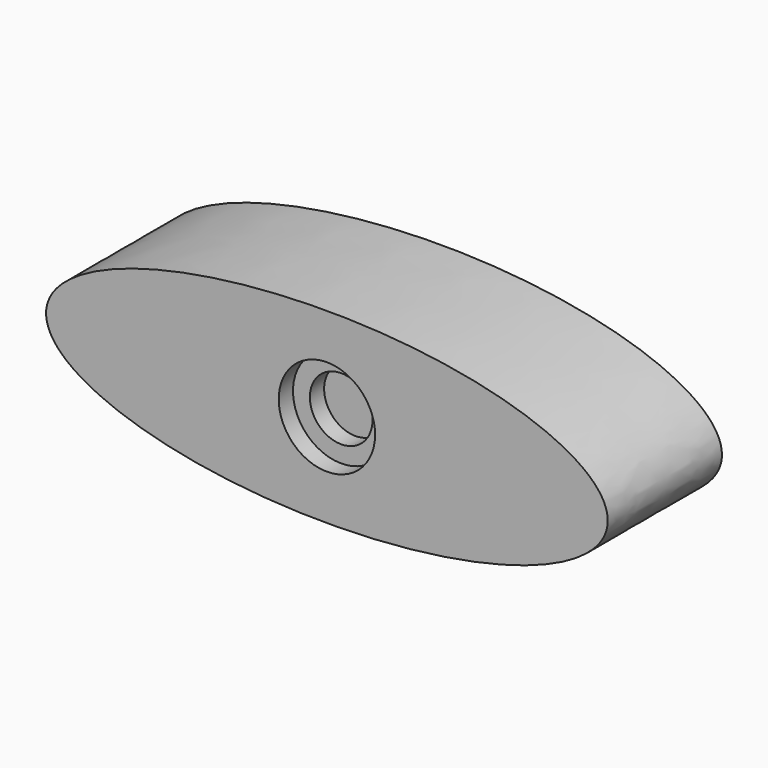
from build123d import *

# Parameters (mm, degrees)
F1_DEPTH = 20
F2_R     = 4.389142
F3_DEPTH = 5
F4_R     = 8.422918
F5_DEPTH = 2.5
F6_R     = 6.752039
F7_DEPTH = 2.5


with BuildPart() as f1:
    # F0 (on Front) → F1 (new body)
    with BuildSketch(Plane.XZ):
        with BuildLine():
            add(Edge.make_bspline(
                [(-39.346054, 0), (-39.346054, -22.684983), (19.673027, -11.342491), (78.692108, 0), (19.673027, 11.342491), (-39.346054, 22.684983), (-39.346054, 0)],
                knots=[0, 0, 0, 2.094395, 2.094395, 4.18879, 4.18879, 6.283185, 6.283185, 6.283185], degree=2, weights=[1, 0.5, 1, 0.5, 1, 0.5, 1]))
        make_face()
    extrude(amount=F1_DEPTH)

    # F2 (on face) → F3 (cut)
    with BuildSketch(Plane.XZ.offset(20)):
        Circle(F2_R)
    extrude(amount=-F3_DEPTH, mode=Mode.SUBTRACT)

    # F4 (on face) → F5 (cut)
    with BuildSketch(Plane.XZ.offset(15)):
        Circle(F4_R)
    extrude(amount=-F5_DEPTH, mode=Mode.SUBTRACT)

    # F6 (on face) → F7 (cut)
    with BuildSketch(Plane.XZ.offset(20)):
        Circle(F6_R)
    extrude(amount=-F7_DEPTH, mode=Mode.SUBTRACT)


solid = f1.part
